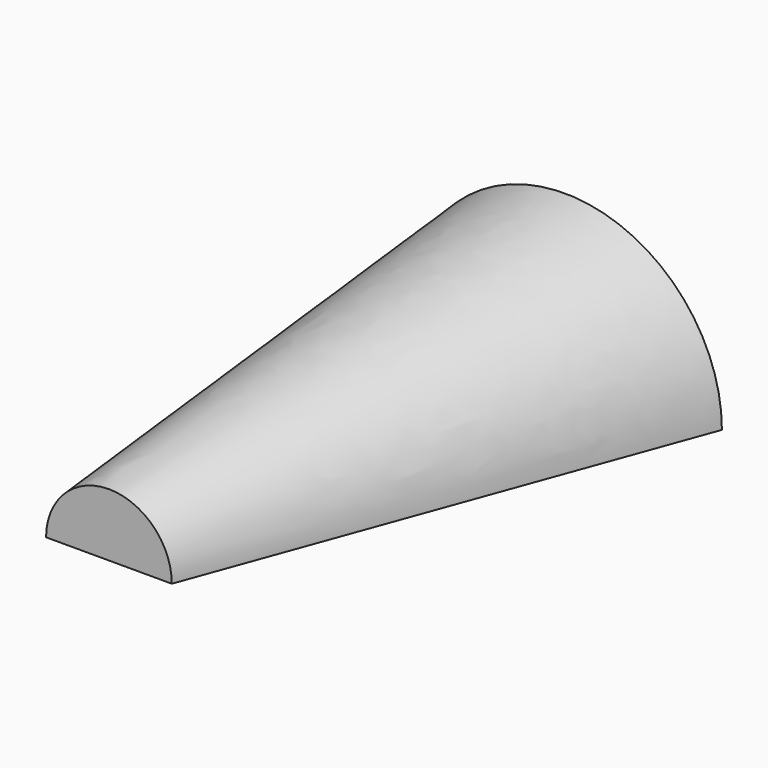
from build123d import *


with BuildPart() as f3:
    # F0 (on Front) → F3 section 0
    with BuildSketch(Plane.XZ):
        with BuildLine():
            Line((-18, 0), (-2, 0))
            ThreePointArc((-2, 0), (-10, 8), (-18, 0))
        make_face()
    # F2 (on offset) → F3 section 1
    with BuildSketch(Plane.XZ.offset(-60)):
        with BuildLine():
            Line((-20, 0), (20, 0))
            ThreePointArc((20, 0), (0, 20), (-20, 0))
        make_face()
    loft()


solid = f3.part
